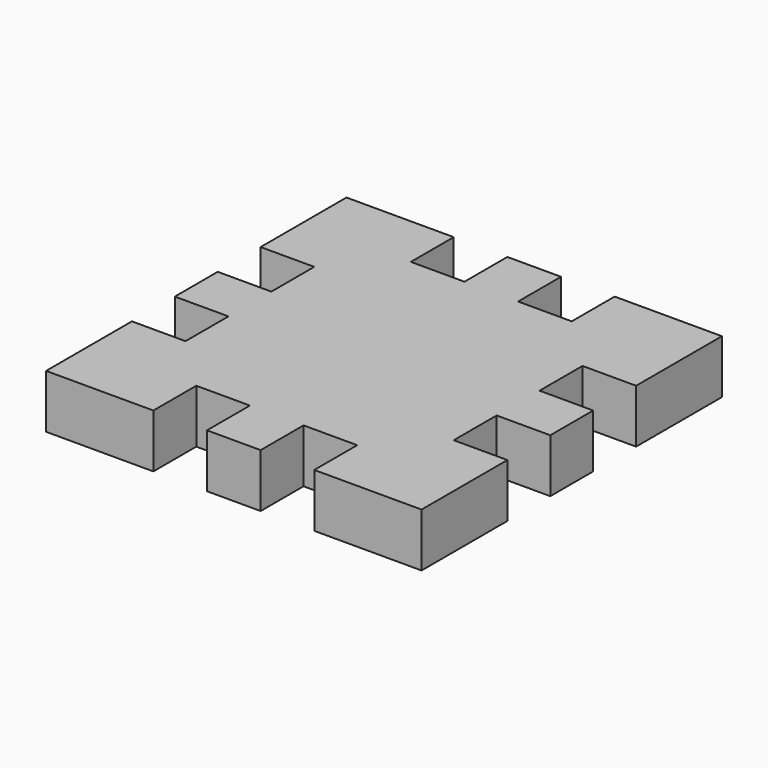
from build123d import *

# Parameters (mm, degrees)
F0_W     = 127
F0_H     = 127
F1_DEPTH = 127


with BuildPart() as f1:
    # F0 (on Top) → F1 (new body)
    with BuildSketch(Plane.XY):
        with Locations((63.5, 63.5)):
            Rectangle(F0_W, F0_H)
        Polygon((127, 0), (0, 0), (0, -127), (0, -254), (0, -381), (0, -508), (0, -635), (127, -635), (254, -635), (381, -635), (508, -635), (635, -635), (635, -508), (635, -381), (635, -254), (635, -127), (635, 0), (508, 0), (381, 0), (254, 0), align=None)
        with Locations((-63.5, 63.5)):
            Rectangle(F0_W, F0_H)
        with Locations((-63.5, -63.5)):
            Rectangle(F0_W, F0_H)
        with Locations((317.5, 63.5)):
            Rectangle(F0_W, F0_H)
        with Locations((-63.5, -317.5)):
            Rectangle(F0_W, F0_H)
        with Locations((571.5, 63.5)):
            Rectangle(F0_W, F0_H)
        with Locations((-63.5, -571.5)):
            Rectangle(F0_W, F0_H)
        with Locations((698.5, -63.5)):
            Rectangle(F0_W, F0_H)
        with Locations((698.5, 63.5)):
            Rectangle(F0_W, F0_H)
        with Locations((-63.5, -698.5)):
            Rectangle(F0_W, F0_H)
        with Locations((63.5, -698.5)):
            Rectangle(F0_W, F0_H)
        with Locations((698.5, -317.5)):
            Rectangle(F0_W, F0_H)
        with Locations((317.5, -698.5)):
            Rectangle(F0_W, F0_H)
        with Locations((698.5, -571.5)):
            Rectangle(F0_W, F0_H)
        with Locations((571.5, -698.5)):
            Rectangle(F0_W, F0_H)
        with Locations((698.5, -698.5)):
            Rectangle(F0_W, F0_H)
    extrude(amount=F1_DEPTH)


solid = f1.part
